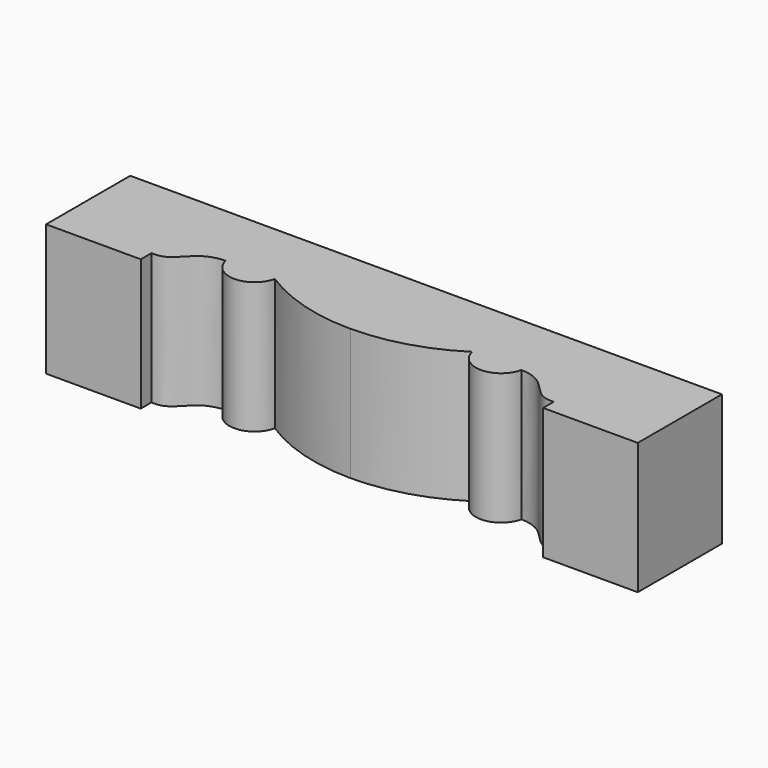
from build123d import *

# Parameters (mm, degrees)
F1_DEPTH = 25.4


with BuildPart() as f1:
    # F0 (on Top) → F1 (new body)
    with BuildSketch(Plane.XY):
        with BuildLine():
            Line((57.15, 0), (0, 0))
            Line((0, 0), (0, -20.32))
            Line((0, -20.32), (18.288, -20.32))
            Line((18.288, -20.32), (18.288, -17.78))
            add(Edge.make_bspline(
                [(18.288, -17.78), (19.5003372633, -17.78), (20.9589545485, -17.4917433662), (23.0646434791, -15.3048474183), (24.9900381466, -13.3300613523), (27.3662145743, -12.7), (28.575, -12.7)],
                knots=[0, 0, 0, 0, 0.2397485597, 0.4832453932, 0.7259444723, 1, 1, 1, 1], degree=3))
            ThreePointArc((28.575, -12.7), (33.3375, -16.51), (38.1, -12.7))
            ThreePointArc((38.1, -12.7), (47.2236683009, -16.8621762468), (57.15, -18.288))
            Line((57.15, -18.288), (57.15, 0))
        make_face()
    extrude(amount=F1_DEPTH)

    # F2: F1 across face


with BuildPart() as f1_1:
    add(f1.part)
    add(f1.part.mirror(Plane(origin=(57.15, -9.144, 12.7), x_dir=(0, 1, 0), z_dir=(1, 0, 0))))


solid = f1_1.part
